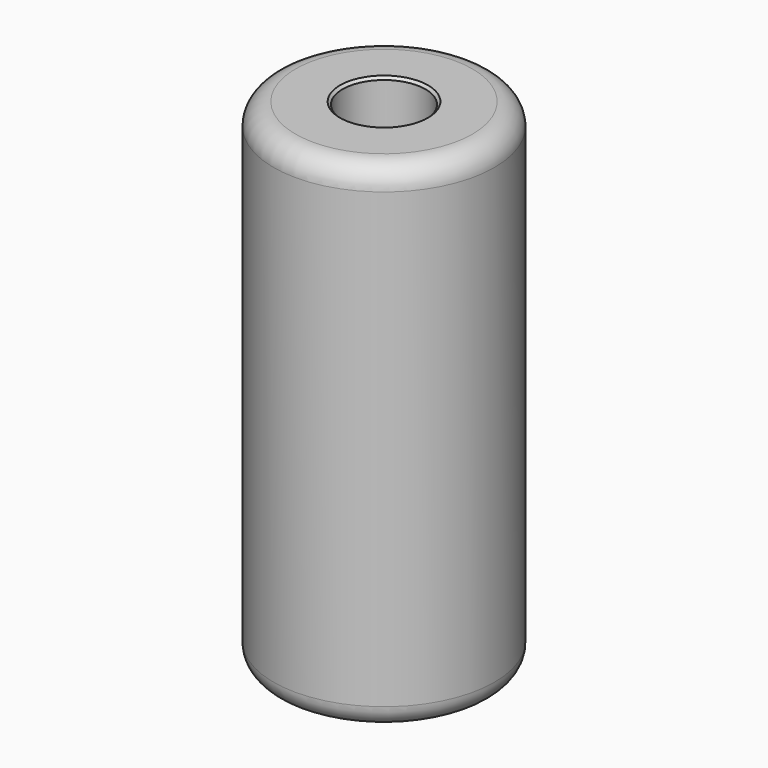
from build123d import *

# Parameters (mm, degrees)
F0_R     = 12.7
F1_DEPTH = 57.15
F2_R     = 4.7625
F3_DEPTH = 44.45
F4_R     = 2.54
F5_SIZE  = 0.3


with BuildPart() as f1:
    # F0 (on Top) → F1 (new body)
    with BuildSketch(Plane.XY):
        Circle(F0_R)
    extrude(amount=F1_DEPTH)

    # F2 (on face) → F3 (cut)
    with BuildSketch(Plane.XY.offset(57.15)):
        Circle(F2_R)
    extrude(amount=-F3_DEPTH, mode=Mode.SUBTRACT)

    # F4
    f4_edges = [f1.edges().sort_by_distance(p)[0] for p in [
        (-12.7, 0, 0),
        (-12.7, 0, 57.15),
    ]]
    fillet(f4_edges, radius=F4_R)

    # F5
    f5_edges = [f1.edges().sort_by_distance(p)[0] for p in [
        (-4.7625, 0, 12.7),
        (-10.16, 0, 57.15),
        (-4.7625, 0, 57.15),
    ]]
    chamfer(f5_edges, length=F5_SIZE)


solid = f1.part
